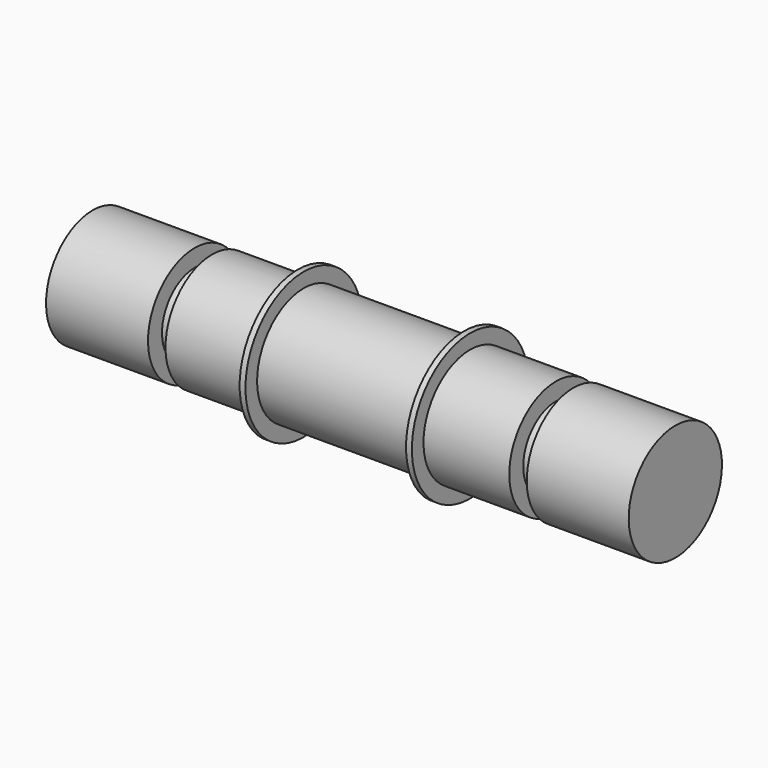
from build123d import *

# Parameters (mm, degrees)
F5_R     = 6.35
F6_DEPTH = 0.508
F7_R     = 6.35
F8_DEPTH = 0.508


with BuildPart() as f1:
    # F0 (on Front) → F1 (revolve)
    with BuildSketch(Plane.XZ):
        Polygon((0, 5.08), (0, 0), (50.8, 0), (50.8, 5.08), (41.91, 5.08), (41.91, 3.556), (40.386, 3.556), (40.386, 5.08), (10.414, 5.08), (10.414, 3.556), (8.89, 3.556), (8.89, 5.08), align=None)
    revolve(axis=Axis((25.4, 0, 0), (-1, 0, 0)))

    # F5 (on offset) → F6 (join)
    with BuildSketch(Plane.YZ.offset(32.4)):
        Circle(F5_R)
    extrude(amount=F6_DEPTH)

    # F7 (on offset) → F8 (join)
    with BuildSketch(Plane.YZ.offset(18.4)):
        Circle(F7_R)
    extrude(amount=-F8_DEPTH)


solid = f1.part
